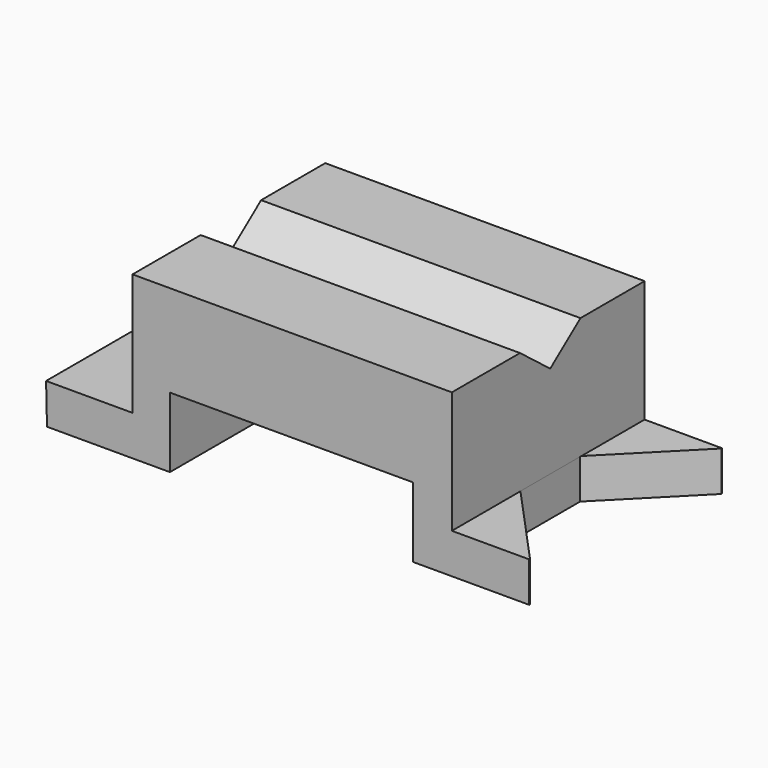
from build123d import *

# Parameters (mm, degrees)
F1_DEPTH = 76.2
F3_DEPTH = 50.8
F4_DEPTH = 76.2
F6_DEPTH = 12.7


with BuildPart() as f1:
    # F0 (on Front) → F1 (new body)
    with BuildSketch(Plane.XZ):
        Polygon((-72.527050972, 12.6634538174), (-72.2392499447, 0), (-33.3512052894, 0), (-33.3512052894, 22.1610423177), (43.4929318726, 22.1610423177), (43.4929318726, 0), (80.2978053689, 0), (80.2978053689, 12.6634538174), (55.8343157172, 12.6634538174), (55.8343157172, 51.2294247746), (-45.1855063438, 51.2294247746), (-45.1855063438, 12.6634538174), align=None)
    extrude(amount=-F1_DEPTH)

    # F2 (on Right) → F3 (cut)
    with BuildSketch(Plane.YZ):
        Polygon((51.5903218925, 51.8050380051), (38.8903218925, 51.8050380051), (26.1903218925, 51.8050380051), (38.8903218925, 42.0196428895), align=None)
    extrude(amount=-F3_DEPTH, mode=Mode.SUBTRACT)

    # F4 (cut): a face of the model
    f4_faces = [f1.faces().sort_by_distance(p)[0] for p in [
        (0, 38.8903218925, 48.1594974796),
    ]]
    extrude(f4_faces, amount=-F4_DEPTH, mode=Mode.SUBTRACT)

    # F5 (on Top) → F6 (cut)
    with BuildSketch(Plane.XY):
        Polygon((55.6040368974, 27.3620393127), (80.5960595608, 0), (80.5960595608, 76.2594789267), (55.6040368974, 50.9958043694), align=None)
    extrude(amount=F6_DEPTH, mode=Mode.SUBTRACT)


solid = f1.part
